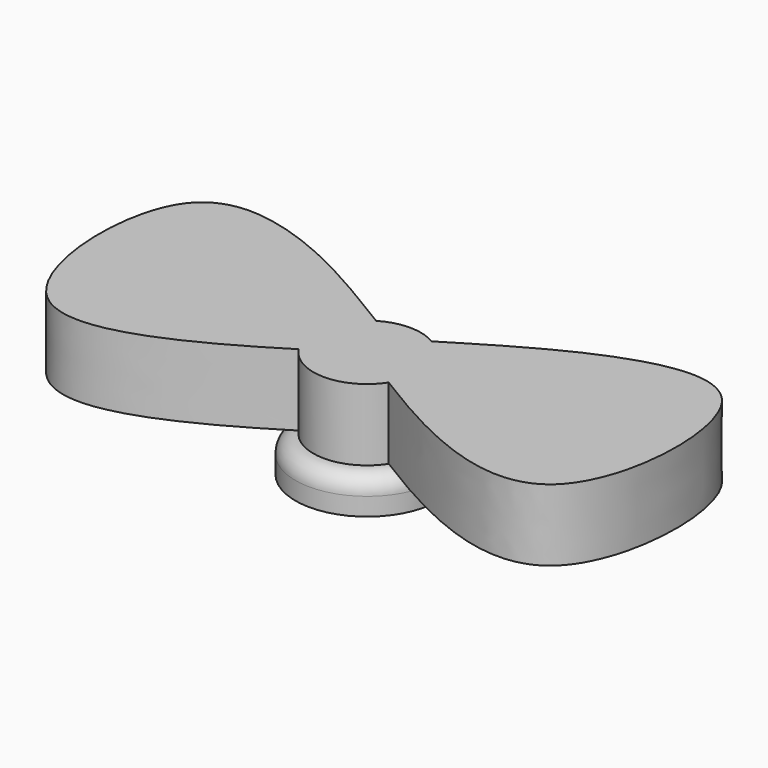
from build123d import *

# Parameters (mm, degrees)
F0_R     = 25.4
F1_DEPTH = 12.7
F2_R     = 6.35
F4_DEPTH = 25.4


with BuildPart() as f1:
    # F0 (on Top) → F1 (new body)
    with BuildSketch(Plane.XY):
        Circle(F0_R)
    extrude(amount=F1_DEPTH)

    # F2
    f2_edges = [f1.edges().sort_by_distance(p)[0] for p in [
        (-25.4, 0, 12.7),
    ]]
    fillet(f2_edges, radius=F2_R)

    # F3 (on face) → F4 (join)
    with BuildSketch(Plane.XY.offset(12.7)):
        with BuildLine():
            ThreePointArc((15.9767099151, -10.3753188042), (18.2655252304, -5.4104609839), (19.05, 0))
            ThreePointArc((19.05, 0), (16.5844776781, 9.3732385089), (9.8261049717, 16.3202377766))
            ThreePointArc((9.8261049717, 16.3202377766), (0, 19.05), (-9.8261049717, 16.3202377766))
            ThreePointArc((-9.8261049717, 16.3202377766), (-18.5636607195, 4.2770317616), (-15.9767099151, -10.3753188042))
            add(Edge.make_bspline(
                [(-15.9767099151, -10.3753188042), (-10.733833245, -7.0871349658), (-5.3932086394, -3.5998040782), (0, 0)],
                knots=[0.9558270174, 0.9558270174, 0.9558270174, 0.9558270174, 1, 1, 1, 1], degree=3))
            add(Edge.make_bspline(
                [(15.9767099151, -10.3753188042), (10.733833245, -7.0871349658), (5.3932086394, -3.5998040782), (0, 0)],
                knots=[0.9558270174, 0.9558270174, 0.9558270174, 0.9558270174, 1, 1, 1, 1], degree=3))
        make_face()
        with BuildLine():
            ThreePointArc((9.8261049717, 16.3202377766), (16.5844776781, 9.3732385089), (19.05, 0))
            ThreePointArc((19.05, 0), (18.2655252304, -5.4104609839), (15.9767099151, -10.3753188042))
            add(Edge.make_bspline(
                [(9.8261049717, 16.3202377766), (27.5133129115, 27.1332712353), (58.5484608841, 46.2094911101), (107.0925459928, 49.2422955372), (102.8890607811, -55.0234025928), (47.4976243758, -30.1443440976), (15.9767099151, -10.3753188042)],
                knots=[0, 0, 0, 0, 0.2449740985, 0.4302204371, 0.6902528121, 0.9558270174, 0.9558270174, 0.9558270174, 0.9558270174], degree=3))
        make_face()
        with BuildLine():
            ThreePointArc((-15.9767099151, -10.3753188042), (0, -19.05), (15.9767099151, -10.3753188042))
            add(Edge.make_bspline(
                [(15.9767099151, -10.3753188042), (10.733833245, -7.0871349658), (5.3932086394, -3.5998040782), (0, 0)],
                knots=[0.9558270174, 0.9558270174, 0.9558270174, 0.9558270174, 1, 1, 1, 1], degree=3))
            add(Edge.make_bspline(
                [(-15.9767099151, -10.3753188042), (-10.733833245, -7.0871349658), (-5.3932086394, -3.5998040782), (0, 0)],
                knots=[0.9558270174, 0.9558270174, 0.9558270174, 0.9558270174, 1, 1, 1, 1], degree=3))
        make_face()
        with BuildLine():
            ThreePointArc((-15.9767099151, -10.3753188042), (-18.5636607195, 4.2770317616), (-9.8261049717, 16.3202377766))
            add(Edge.make_bspline(
                [(-9.8261049717, 16.3202377766), (-27.5133129115, 27.1332712353), (-58.5484608841, 46.2094911101), (-107.0925459928, 49.2422955372), (-102.8890607811, -55.0234025928), (-47.4976243758, -30.1443440976), (-15.9767099151, -10.3753188042)],
                knots=[0, 0, 0, 0, 0.2449740985, 0.4302204371, 0.6902528121, 0.9558270174, 0.9558270174, 0.9558270174, 0.9558270174], degree=3))
        make_face()
    extrude(amount=F4_DEPTH)


solid = f1.part
